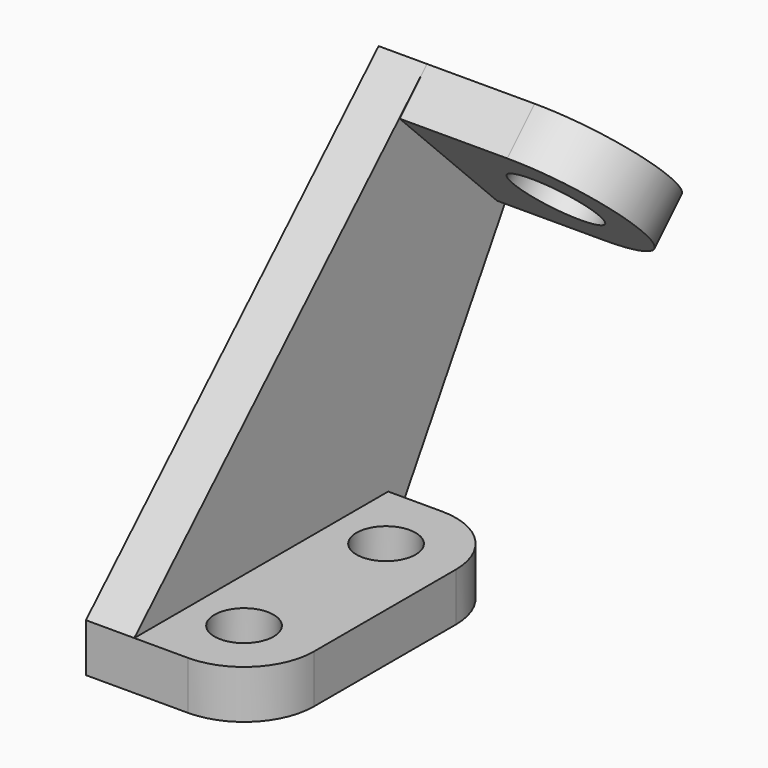
from build123d import *

# Parameters (mm, degrees)
F0_R     = 5.5
F1_DEPTH = 9
F3_DEPTH = 9
F4_R     = 8
F5_DEPTH = 9


with BuildPart() as f1:
    # F0 (on Top) → F1 (new body)
    with BuildSketch(Plane.XY):
        with BuildLine():
            Line((0, 59), (0, 0))
            Line((0, 0), (10, 0))
            ThreePointArc((10, 0), (19.192388, 3.807612), (23, 13))
            Line((23, 13), (23, 46))
            ThreePointArc((23, 46), (19.192388, 55.192388), (10, 59))
            Line((10, 59), (0, 59))
        make_face()
        with Locations((10, 13)):
            Circle(F0_R, mode=Mode.SUBTRACT)
        with Locations((10, 46)):
            Circle(F0_R, mode=Mode.SUBTRACT)
    extrude(amount=F1_DEPTH)

    # F2 (on Right) → F3 (join)
    with BuildSketch(Plane.YZ):
        Polygon((90.653089, 52.686292), (68.025672, 75.313708), (0, 9), (0, 0), (59, 0), align=None)
    extrude(amount=-F3_DEPTH)

    # F4 (on face) → F5 (join)
    with BuildSketch(Plane(origin=(0, 71.66969, 71.66969), x_dir=(-1, 0, 0), z_dir=(0, 0.707107, 0.707107))):
        with BuildLine():
            Line((9, -26.84658), (9, 5.15342))
            Line((9, 5.15342), (-20, 5.15342))
            ThreePointArc((-20, 5.15342), (-36, -10.84658), (-20, -26.84658))
            Line((-20, -26.84658), (9, -26.84658))
        make_face()
        with Locations((-20, -10.84658)):
            Circle(F4_R, mode=Mode.SUBTRACT)
    extrude(amount=-F5_DEPTH)


solid = f1.part
